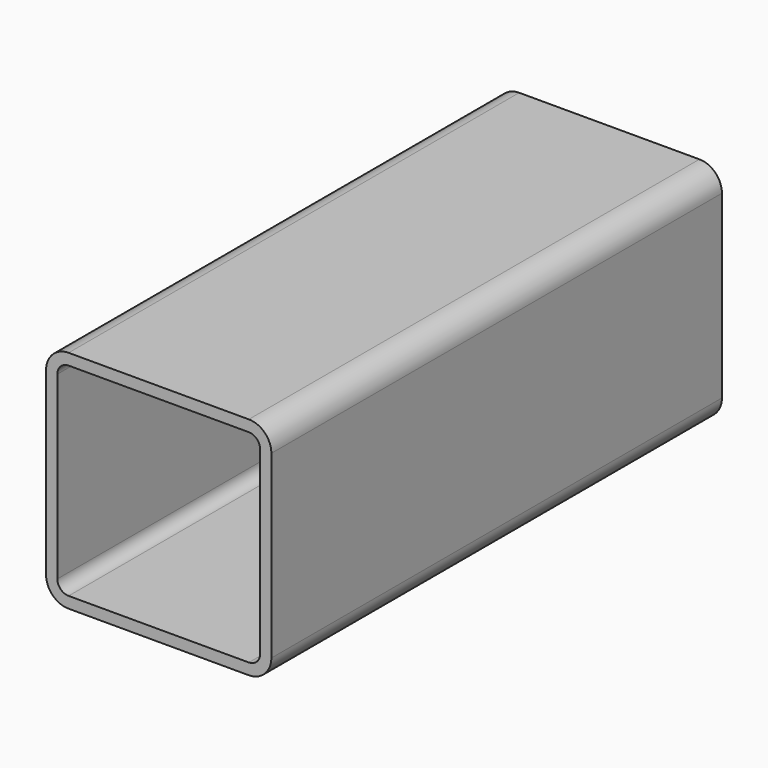
from build123d import *

# Parameters (mm, degrees)
F1_DEPTH = 500


with BuildPart() as f1:
    # F0 (on Front) → F1 (new body)
    with BuildSketch(Plane.XZ):
        with BuildLine():
            ThreePointArc((100, 80), (94.142136, 94.142136), (80, 100))
            Line((80, 100), (-80, 100))
            ThreePointArc((-80, 100), (-94.142136, 94.142136), (-100, 80))
            Line((-100, 80), (-100, -80))
            ThreePointArc((-100, -80), (-94.142136, -94.142136), (-80, -100))
            Line((-80, -100), (80, -100))
            ThreePointArc((80, -100), (94.142136, -94.142136), (100, -80))
            Line((100, -80), (100, 80))
        make_face()
        with BuildLine():
            Line((-80, 90), (80, 90))
            ThreePointArc((80, 90), (87.071068, 87.071068), (90, 80))
            Line((90, 80), (90, -80))
            ThreePointArc((90, -80), (87.071068, -87.071068), (80, -90))
            Line((80, -90), (-80, -90))
            ThreePointArc((-80, -90), (-87.071068, -87.071068), (-90, -80))
            Line((-90, -80), (-90, 80))
            ThreePointArc((-90, 80), (-87.071068, 87.071068), (-80, 90))
        make_face(mode=Mode.SUBTRACT)
    extrude(amount=F1_DEPTH)


solid = f1.part
